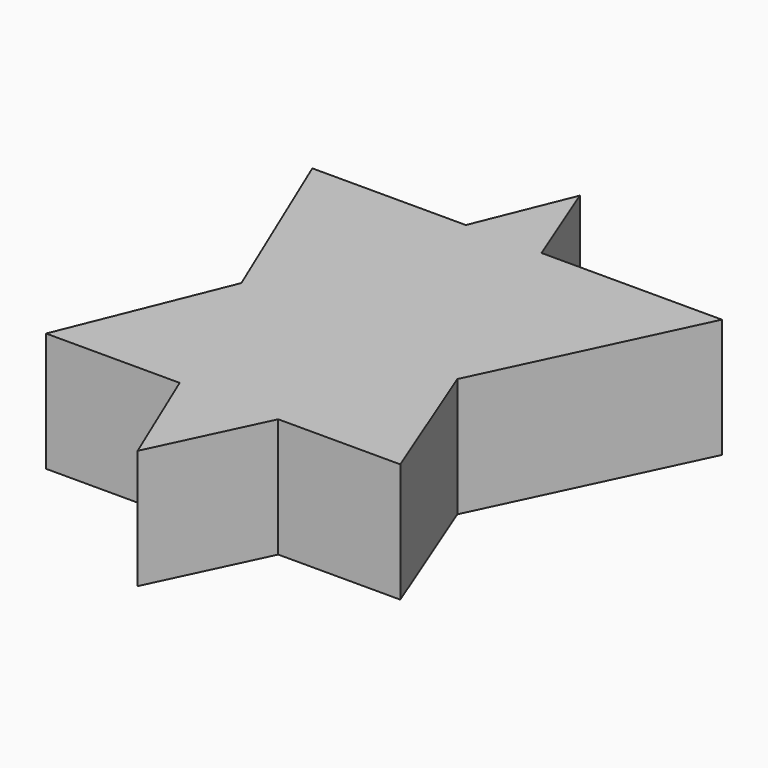
from build123d import *

# Parameters (mm, degrees)
F1_DEPTH = 25.4


with BuildPart() as f1:
    # F0 (on Top) → F1 (new body)
    with BuildSketch(Plane.XY):
        Polygon((-8.186579082, 29.3166413903), (-40.9211441875, 29.3166413903), (-24.3044075905, -10.3651176924), align=None)
        Polygon((0, 49.4718290865), (-8.186579082, 29.3166413903), (7.9457961573, 29.3166413903), align=None)
        Polygon((7.9457961573, 29.3166413903), (-8.186579082, 29.3166413903), (-24.3044075905, -10.3651176924), (-9.8466492379, -44.8911078274), (11.169333611, -44.8911078274), (25.3944805374, -14.9434304482), align=None)
        Polygon((-9.8466492379, -44.8911078274), (-24.3044075905, -10.3651176924), (-38.3280799513, -44.8911078274), align=None)
        Polygon((46.4180149138, 29.3166413903), (7.9457961573, 29.3166413903), (25.3944805374, -14.9434304482), align=None)
        Polygon((11.169333611, -44.8911078274), (-9.8466492379, -44.8911078274), (0, -68.4054940939), align=None)
        Polygon((37.2007779247, -44.8911078274), (25.3944805374, -14.9434304482), (11.169333611, -44.8911078274), align=None)
    extrude(amount=F1_DEPTH)


solid = f1.part
